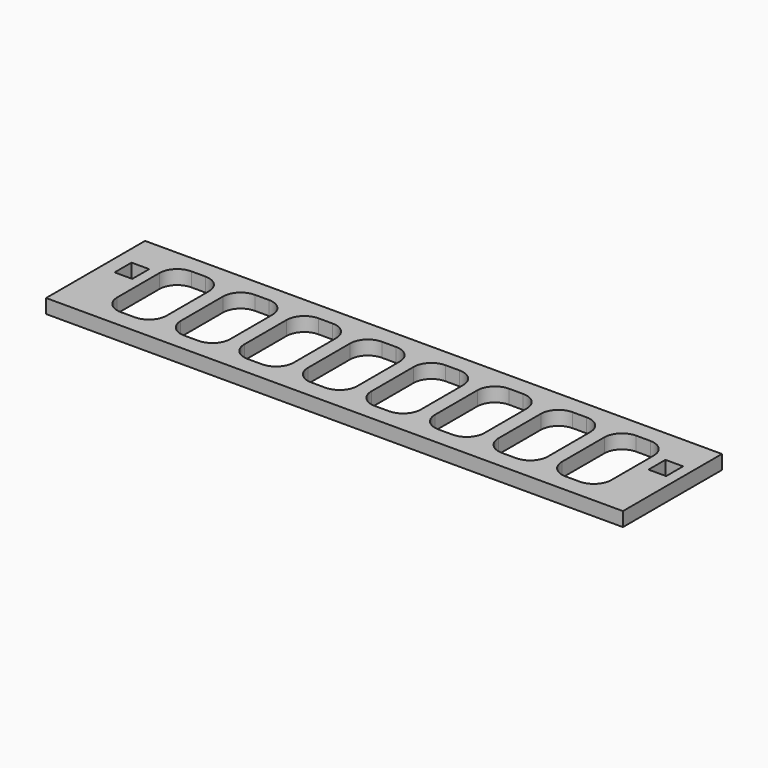
from build123d import *

# Parameters (mm, degrees)
F0_W     = 163.4
F0_H     = 35.05
F0_W_2   = 5
F0_H_2   = 6
F1_DEPTH = 2


with BuildPart() as f1:
    # F0 (on Top) → F1 (new body, symmetric)
    with BuildSketch(Plane.XY):
        with Locations((81.7, 17.525)):
            Rectangle(F0_W, F0_H)
        with BuildLine():
            Line((17.10444, 30.05), (21.10444, 30.05))
            ThreePointArc((21.10444, 30.05), (24.639974, 28.585534), (26.10444, 25.05))
            Line((26.10444, 25.05), (26.10444, 10.05))
            ThreePointArc((26.10444, 10.05), (24.639974, 6.514466), (21.10444, 5.05))
            Line((21.10444, 5.05), (17.10444, 5.05))
            ThreePointArc((17.10444, 5.05), (13.568906, 6.514466), (12.10444, 10.05))
            Line((12.10444, 10.05), (12.10444, 25.05))
            ThreePointArc((12.10444, 25.05), (13.568906, 28.585534), (17.10444, 30.05))
        make_face(mode=Mode.SUBTRACT)
        with BuildLine():
            ThreePointArc((39.10444, 30.05), (42.639974, 28.585534), (44.10444, 25.05))
            Line((44.10444, 25.05), (44.10444, 10.05))
            ThreePointArc((44.10444, 10.05), (42.639974, 6.514466), (39.10444, 5.05))
            Line((39.10444, 5.05), (35.10444, 5.05))
            ThreePointArc((35.10444, 5.05), (31.568906, 6.514466), (30.10444, 10.05))
            Line((30.10444, 10.05), (30.10444, 25.05))
            ThreePointArc((30.10444, 25.05), (31.568906, 28.585534), (35.10444, 30.05))
            Line((35.10444, 30.05), (39.10444, 30.05))
        make_face(mode=Mode.SUBTRACT)
        with Locations((6.666683, 22.05)):
            Rectangle(F0_W_2, F0_H_2, mode=Mode.SUBTRACT)
        with BuildLine():
            ThreePointArc((57.10444, 30.05), (60.639974, 28.585534), (62.10444, 25.05))
            Line((62.10444, 25.05), (62.10444, 10.05))
            ThreePointArc((62.10444, 10.05), (60.639974, 6.514466), (57.10444, 5.05))
            Line((57.10444, 5.05), (53.10444, 5.05))
            ThreePointArc((53.10444, 5.05), (49.568906, 6.514466), (48.10444, 10.05))
            Line((48.10444, 10.05), (48.10444, 25.05))
            ThreePointArc((48.10444, 25.05), (49.568906, 28.585534), (53.10444, 30.05))
            Line((53.10444, 30.05), (57.10444, 30.05))
        make_face(mode=Mode.SUBTRACT)
        with BuildLine():
            ThreePointArc((75.10444, 30.05), (78.639974, 28.585534), (80.10444, 25.05))
            Line((80.10444, 25.05), (80.10444, 10.05))
            ThreePointArc((80.10444, 10.05), (78.639974, 6.514466), (75.10444, 5.05))
            Line((75.10444, 5.05), (71.10444, 5.05))
            ThreePointArc((71.10444, 5.05), (67.568906, 6.514466), (66.10444, 10.05))
            Line((66.10444, 10.05), (66.10444, 25.05))
            ThreePointArc((66.10444, 25.05), (67.568906, 28.585534), (71.10444, 30.05))
            Line((71.10444, 30.05), (75.10444, 30.05))
        make_face(mode=Mode.SUBTRACT)
        with BuildLine():
            ThreePointArc((93.10444, 30.05), (96.639974, 28.585534), (98.10444, 25.05))
            Line((98.10444, 25.05), (98.10444, 10.05))
            ThreePointArc((98.10444, 10.05), (96.639974, 6.514466), (93.10444, 5.05))
            Line((93.10444, 5.05), (89.10444, 5.05))
            ThreePointArc((89.10444, 5.05), (85.568906, 6.514466), (84.10444, 10.05))
            Line((84.10444, 10.05), (84.10444, 25.05))
            ThreePointArc((84.10444, 25.05), (85.568906, 28.585534), (89.10444, 30.05))
            Line((89.10444, 30.05), (93.10444, 30.05))
        make_face(mode=Mode.SUBTRACT)
        with BuildLine():
            ThreePointArc((111.10444, 30.05), (114.639974, 28.585534), (116.10444, 25.05))
            Line((116.10444, 25.05), (116.10444, 10.05))
            ThreePointArc((116.10444, 10.05), (114.639974, 6.514466), (111.10444, 5.05))
            Line((111.10444, 5.05), (107.10444, 5.05))
            ThreePointArc((107.10444, 5.05), (103.568906, 6.514466), (102.10444, 10.05))
            Line((102.10444, 10.05), (102.10444, 25.05))
            ThreePointArc((102.10444, 25.05), (103.568906, 28.585534), (107.10444, 30.05))
            Line((107.10444, 30.05), (111.10444, 30.05))
        make_face(mode=Mode.SUBTRACT)
        with BuildLine():
            ThreePointArc((129.10444, 30.05), (132.639974, 28.585534), (134.10444, 25.05))
            Line((134.10444, 25.05), (134.10444, 10.05))
            ThreePointArc((134.10444, 10.05), (132.639974, 6.514466), (129.10444, 5.05))
            Line((129.10444, 5.05), (125.10444, 5.05))
            ThreePointArc((125.10444, 5.05), (121.568906, 6.514466), (120.10444, 10.05))
            Line((120.10444, 10.05), (120.10444, 25.05))
            ThreePointArc((120.10444, 25.05), (121.568906, 28.585534), (125.10444, 30.05))
            Line((125.10444, 30.05), (129.10444, 30.05))
        make_face(mode=Mode.SUBTRACT)
        with BuildLine():
            ThreePointArc((147.10444, 30.05), (150.639974, 28.585534), (152.10444, 25.05))
            Line((152.10444, 25.05), (152.10444, 10.05))
            ThreePointArc((152.10444, 10.05), (150.639974, 6.514466), (147.10444, 5.05))
            Line((147.10444, 5.05), (143.10444, 5.05))
            ThreePointArc((143.10444, 5.05), (139.568906, 6.514466), (138.10444, 10.05))
            Line((138.10444, 10.05), (138.10444, 25.05))
            ThreePointArc((138.10444, 25.05), (139.568906, 28.585534), (143.10444, 30.05))
            Line((143.10444, 30.05), (147.10444, 30.05))
        make_face(mode=Mode.SUBTRACT)
        with Locations((157.9, 22.05)):
            Rectangle(F0_W_2, F0_H_2, mode=Mode.SUBTRACT)
    extrude(amount=F1_DEPTH, both=True)


solid = f1.part
